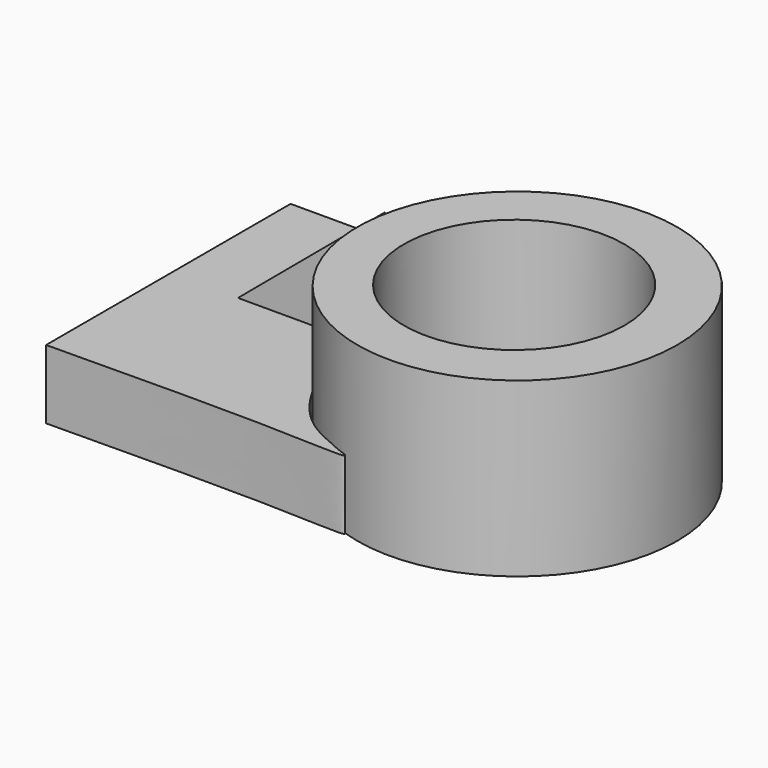
from build123d import *

# Parameters (mm, degrees)
F0_R     = 58.8324156358
F1_DEPTH = 63.5
F2_R     = 40.5716909801
F3_DEPTH = 63.501
F5_DEPTH = 25.4
F7_DEPTH = 12.7


with BuildPart() as f1:
    # F0 (on Top) → F1 (new body)
    with BuildSketch(Plane.XY):
        with Locations((78.2794505358, 0)):
            Circle(F0_R)
    extrude(amount=F1_DEPTH)

    # F2 (on Top) → F3 (cut, through all)
    with BuildSketch(Plane.XY):
        with Locations((77.139608562, 0)):
            Circle(F2_R)
    extrude(amount=F3_DEPTH, mode=Mode.SUBTRACT)

    # F4 (on Top) → F5 (join)
    with BuildSketch(Plane.XY):
        with BuildLine():
            add(Edge.make_bspline(
                [(-50.2571389079, -56.1054311693), (-16.7832059207, -55.6967128398), (32.1861465243, -55.0987946945), (67.1425862644, -57.641467666), (45.7816152555, -51.1111653509), (33.0959452068, -41.131486421), (22.5874521406, -22.5952197622), (18.4327377492, -5.9917502981), (19.0387832668, 11.3825225281), (25.1956842548, 27.0460198571), (30.7814993553, 37.5243375445), (45.4991432323, 49.5310228176), (55.0799139421, 54.1549944447), (59.7038790584, 56.3866607845)],
                knots=[0, 0, 0, 0, 0.1891612959, 0.2767259579, 0.3472655422, 0.4317314301, 0.5218364542, 0.6040854661, 0.6864673203, 0.766880288, 0.8353517069, 0.920535833, 1, 1, 1, 1], degree=3))
            Line((59.7038790584, 56.3866607845), (-50.2571389079, 56.3866607845))
            Line((-50.2571389079, 56.3866607845), (-50.2571389079, -56.1054311693))
        make_face()
    extrude(amount=F5_DEPTH)

    # F6 (on Front) → F7 (join)
    with BuildSketch(Plane.XZ):
        Polygon((19.521009177, 26.206118986), (19.521009177, 63.1586238742), (-24.5204272107, 26.206118986), align=None)
    extrude(amount=-F7_DEPTH)


solid = f1.part
